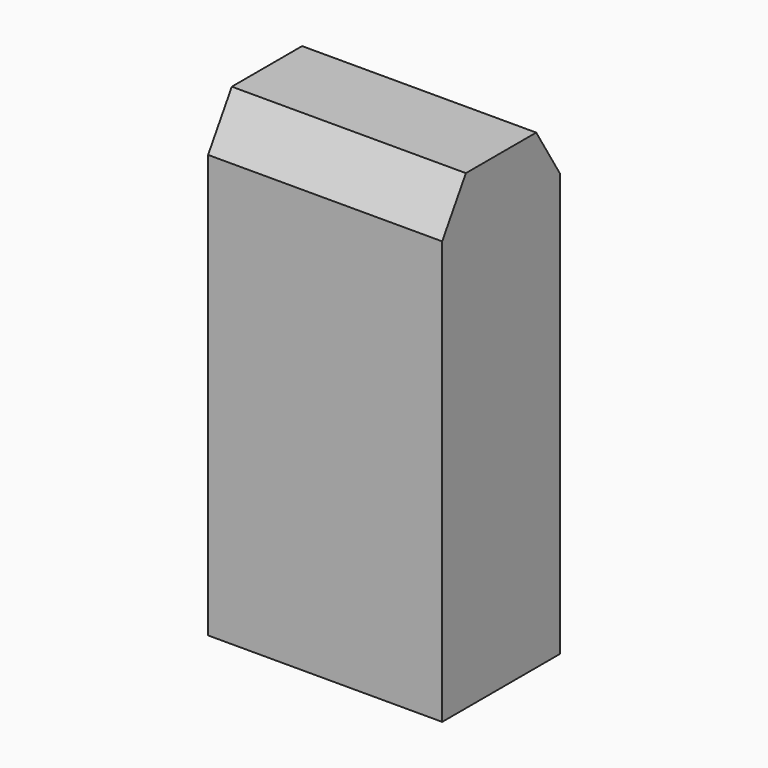
from build123d import *

# Parameters (mm, degrees)
F0_W     = 29.05786
F0_H     = 69.01241
F1_DEPTH = 23.114


with BuildPart() as f1:
    # F0 (on Right) → F1 (new body, symmetric)
    with BuildSketch(Plane.YZ):
        with Locations((0, -6.961778)):
            Rectangle(F0_W, F0_H)
        Polygon((-14.52893, 27.544427), (14.52893, 27.544427), (14.52893, 42.073354), (8.676999, 51.557515), (0, 51.557515), (-8.676999, 51.557515), (-14.52893, 42.073354), align=None)
    extrude(amount=F1_DEPTH, both=True)


solid = f1.part
